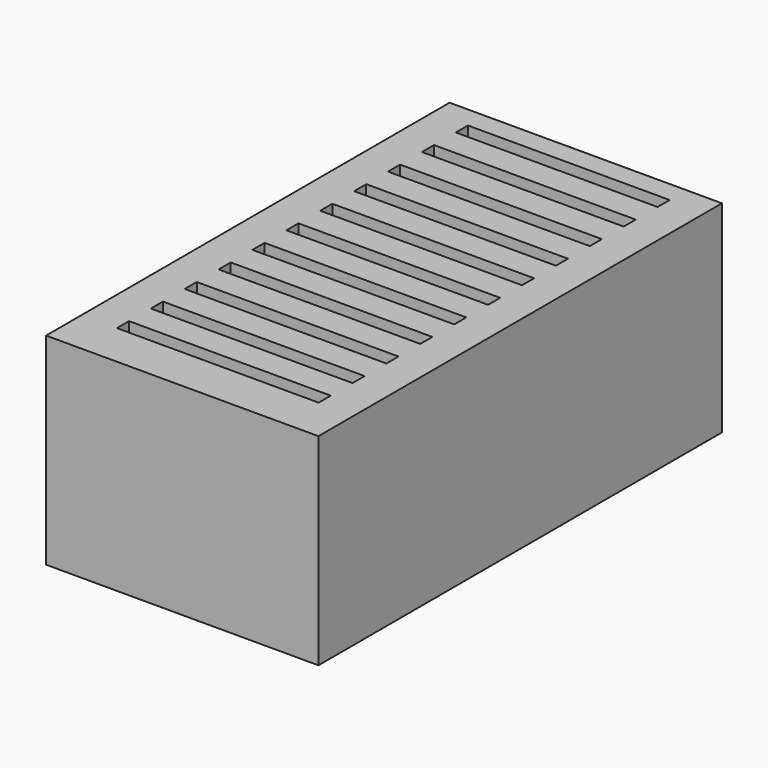
from build123d import *

# Parameters (mm, degrees)
F0_W     = 34.29
F0_H     = 63.5
F1_DEPTH = 25.4


with BuildPart() as f1:
    # F0 (on Top) → F1 (new body)
    with BuildSketch(Plane.XY):
        with Locations((6.322508, 33.528001)):
            Rectangle(F0_W, F0_H)
        Polygon((19.022508, 7.366001), (6.322508, 7.366001), (-6.377492, 7.366001), (-6.377492, 9.271001), (5.6515, 9.271001), (19.022508, 9.271001), align=None, mode=Mode.SUBTRACT)
        Polygon((19.022508, 12.700001), (6.322508, 12.700001), (-6.377492, 12.700001), (-6.377492, 14.605001), (7.876809, 14.605001), (19.022508, 14.605001), align=None, mode=Mode.SUBTRACT)
        Polygon((19.022508, 18.034001), (6.322508, 18.034001), (-6.377492, 18.034001), (-6.377492, 19.939001), (5.6515, 19.939001), (19.022508, 19.939001), align=None, mode=Mode.SUBTRACT)
        Polygon((19.022508, 23.368001), (6.322508, 23.368001), (-6.377492, 23.368001), (-6.377492, 25.273001), (5.6515, 25.273001), (19.022508, 25.273001), align=None, mode=Mode.SUBTRACT)
        Polygon((19.022508, 28.702001), (6.322508, 28.702001), (-6.377492, 28.702001), (-6.377492, 30.607001), (5.6515, 30.607001), (19.022508, 30.607001), align=None, mode=Mode.SUBTRACT)
        Polygon((19.022508, 60.706001), (6.322508, 60.706001), (-6.377492, 60.706001), (-6.377492, 62.611001), (5.6515, 62.611001), (19.022508, 62.611001), align=None, mode=Mode.SUBTRACT)
        Polygon((19.022508, 34.036001), (6.322508, 34.036001), (-6.377492, 34.036001), (-6.377492, 35.941001), (5.6515, 35.941001), (19.022508, 35.941001), align=None, mode=Mode.SUBTRACT)
        Polygon((19.022508, 39.370001), (6.322508, 39.370001), (-6.377492, 39.370001), (-6.377492, 41.275001), (5.6515, 41.275001), (19.022508, 41.275001), align=None, mode=Mode.SUBTRACT)
        Polygon((19.022508, 44.704001), (6.322508, 44.704001), (-6.377492, 44.704001), (-6.377492, 46.609001), (5.6515, 46.609001), (19.022508, 46.609001), align=None, mode=Mode.SUBTRACT)
        Polygon((19.022508, 50.038001), (6.322508, 50.038001), (-6.377492, 50.038001), (-6.377492, 51.943001), (5.6515, 51.943001), (19.022508, 51.943001), align=None, mode=Mode.SUBTRACT)
        Polygon((19.022508, 55.372001), (6.322508, 55.372001), (-6.377492, 55.372001), (-6.377492, 57.277001), (5.6515, 57.277001), (19.022508, 57.277001), align=None, mode=Mode.SUBTRACT)
    extrude(amount=F1_DEPTH)


solid = f1.part
